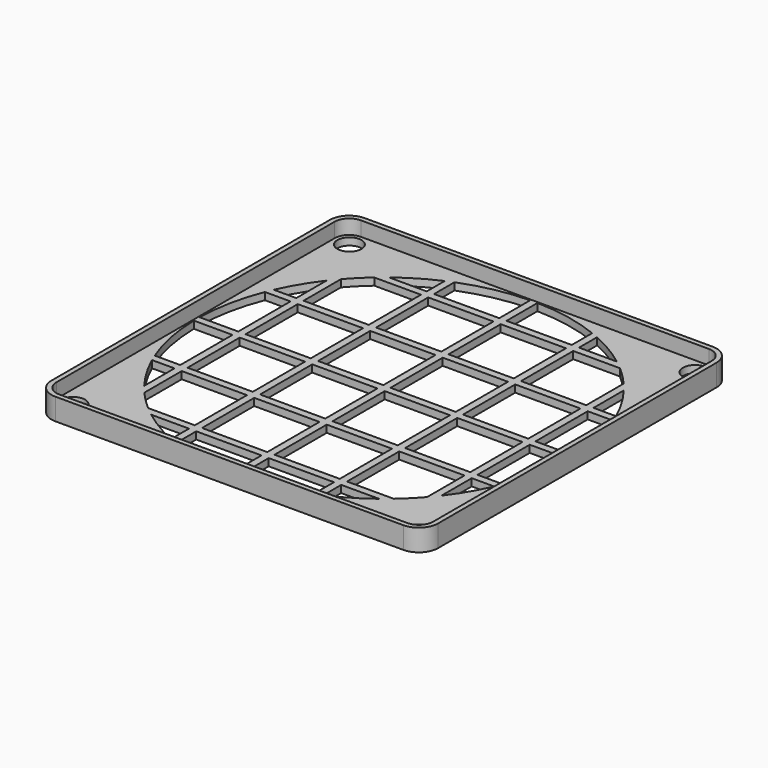
from build123d import *

# Parameters (mm, degrees)
SKETCH006_R            = 2.5
SKETCH006_R_2          = 38.75
PAD004_DEPTH           = 1.5
SKETCH007_W            = 1.5
SKETCH007_H            = 80
PAD005_DEPTH           = 1.5
LINEARPATTERN002_COUNT = 5
LINEARPATTERN002_PITCH = 15
SKETCH008_W            = 80
SKETCH008_H            = 1.5
PAD006_DEPTH           = 1.5
LINEARPATTERN003_COUNT = 5
LINEARPATTERN003_PITCH = 15
PAD007_DEPTH           = 3


with BuildPart() as part:
    # Sketch006 → Pad004 (new body)
    with BuildSketch(Plane.XY):
        with BuildLine():
            Line((40, -36), (40, 36))
            ThreePointArc((40, 36), (38.828427, 38.828427), (36, 40))
            Line((36, 40), (-36, 40))
            ThreePointArc((-36, 40), (-38.828427, 38.828427), (-40, 36))
            Line((-40, 36), (-40, -36))
            ThreePointArc((-40, -36), (-38.828427, -38.828427), (-36, -40))
            Line((-36, -40), (36, -40))
            ThreePointArc((36, -40), (38.828427, -38.828427), (40, -36))
        make_face()
        with Locations((-35.75, 35.75)):
            Circle(SKETCH006_R, mode=Mode.SUBTRACT)
        with Locations((35.75, 35.75)):
            Circle(SKETCH006_R, mode=Mode.SUBTRACT)
        with Locations((35.75, -35.75)):
            Circle(SKETCH006_R, mode=Mode.SUBTRACT)
        with Locations((-35.75, -35.75)):
            Circle(SKETCH006_R, mode=Mode.SUBTRACT)
        Circle(SKETCH006_R_2, mode=Mode.SUBTRACT)
    extrude(amount=PAD004_DEPTH)

    # Sketch007 → Pad005 (join)
    with BuildSketch(Plane.XY):
        with Locations((-30, 0)):
            Rectangle(SKETCH007_W, SKETCH007_H)
    pad005 = extrude(amount=PAD005_DEPTH)

    # LinearPattern002: Pad005 ×5
    with Locations(*[(i * LINEARPATTERN002_PITCH, 0, 0) for i in range(1, LINEARPATTERN002_COUNT)]):
        add(pad005)

    # Sketch008 → Pad006 (join)
    with BuildSketch(Plane.XY):
        with Locations((0, -30)):
            Rectangle(SKETCH008_W, SKETCH008_H)
    pad006 = extrude(amount=PAD006_DEPTH)

    # LinearPattern003: Pad006 ×5
    with Locations(*[(0, i * LINEARPATTERN003_PITCH, 0) for i in range(1, LINEARPATTERN003_COUNT)]):
        add(pad006)

    # Sketch009 (on Face137 of LinearPattern003) → Pad007 (join)
    with BuildSketch(Plane.XY.offset(1.5)):
        with BuildLine():
            Line((-40, 36), (-40, -36))
            ThreePointArc((-40, -36), (-38.828427, -38.828427), (-36, -40))
            Line((-36, -40), (36, -40))
            ThreePointArc((36, -40), (38.828427, -38.828427), (40, -36))
            Line((40, -36), (40, 36))
            ThreePointArc((40, 36), (38.828427, 38.828427), (36, 40))
            Line((36, 40), (-36, 40))
            ThreePointArc((-36, 40), (-38.828427, 38.828427), (-40, 36))
        make_face()
        with BuildLine():
            Line((-39, 36), (-39, -36))
            ThreePointArc((-39, -36), (-38.12132, -38.12132), (-36, -39))
            Line((-36, -39), (36, -39))
            ThreePointArc((36, -39), (38.12132, -38.12132), (39, -36))
            Line((39, -36), (39, 36))
            ThreePointArc((39, 36), (38.12132, 38.12132), (36, 39))
            Line((36, 39), (-36, 39))
            ThreePointArc((-36, 39), (-38.12132, 38.12132), (-39, 36))
        make_face(mode=Mode.SUBTRACT)
    extrude(amount=PAD007_DEPTH)


solid = part.part
